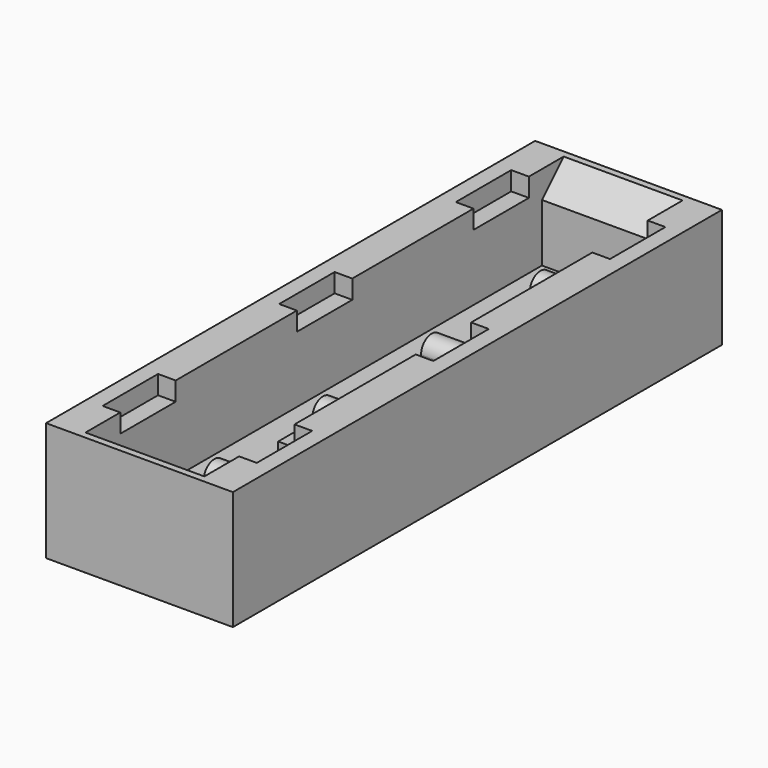
from build123d import *

# Parameters (mm, degrees)
F0_W     = 22.225
F0_H     = 101.6
F1_DEPTH = 6.35
F3_DEPTH = 4.445
F5_DEPTH = 6.6675
F6_W     = 34.925
F6_H     = 114.3
F6_W_2   = 22.225
F6_H_2   = 101.6
F7_DEPTH = 22.225
F8_W     = 3.302
F8_H     = 12.954
F9_DEPTH = 3.5052
F10_SIZE = 5.08


with BuildPart() as f1:
    # F0 (on Top) → F1 (new body)
    with BuildSketch(Plane.XY):
        Rectangle(F0_W, F0_H)
    extrude(amount=-F1_DEPTH)

    # F2 (on Right) → F3 (join, symmetric)
    with BuildSketch(Plane.YZ):
        with BuildLine():
            Line((-44.577, 0), (-31.623, 0))
            Line((-31.623, 0), (-31.623, 2.3495))
            ThreePointArc((-31.623, 2.3495), (-34.0995, 4.826), (-36.576, 2.3495))
            Line((-36.576, 2.3495), (-36.576, 1.651))
            Line((-36.576, 1.651), (-44.577, 1.651))
            Line((-44.577, 1.651), (-44.577, 0))
        make_face()
        with BuildLine():
            Line((-19.177, 0), (-6.223, 0))
            Line((-6.223, 0), (-6.223, 2.3495))
            ThreePointArc((-6.223, 2.3495), (-8.6995, 4.826), (-11.176, 2.3495))
            Line((-11.176, 2.3495), (-11.176, 1.651))
            Line((-11.176, 1.651), (-19.177, 1.651))
            Line((-19.177, 1.651), (-19.177, 0))
        make_face()
        with BuildLine():
            Line((6.223, 0), (19.177, 0))
            Line((19.177, 0), (19.177, 2.3495))
            ThreePointArc((19.177, 2.3495), (16.7005, 4.826), (14.224, 2.3495))
            Line((14.224, 2.3495), (14.224, 1.651))
            Line((14.224, 1.651), (6.223, 1.651))
            Line((6.223, 1.651), (6.223, 0))
        make_face()
        with BuildLine():
            Line((31.623, 0), (44.577, 0))
            Line((44.577, 0), (44.577, 2.3495))
            ThreePointArc((44.577, 2.3495), (42.1005, 4.826), (39.624, 2.3495))
            Line((39.624, 2.3495), (39.624, 1.651))
            Line((39.624, 1.651), (31.623, 1.651))
            Line((31.623, 1.651), (31.623, 0))
        make_face()
    extrude(amount=F3_DEPTH, both=True)

    # F4 (on face) → F5 (join, through all)
    with BuildSketch(Plane.YZ.offset(4.445)):
        with BuildLine():
            ThreePointArc((-33.147, 3.302), (-34.0995, 4.2545), (-35.052, 3.302))
            Line((-35.052, 3.302), (-35.052, 0))
            Line((-35.052, 0), (-33.147, 0))
            Line((-33.147, 0), (-33.147, 3.302))
        make_face()
        with BuildLine():
            Line((-9.652, 3.302), (-9.652, 0))
            Line((-9.652, 0), (-7.747, 0))
            Line((-7.747, 0), (-7.747, 3.302))
            ThreePointArc((-7.747, 3.302), (-8.6995, 4.2545), (-9.652, 3.302))
        make_face()
        with BuildLine():
            Line((15.748, 3.302), (15.748, 0))
            Line((15.748, 0), (17.653, 0))
            Line((17.653, 0), (17.653, 3.302))
            ThreePointArc((17.653, 3.302), (16.7005, 4.2545), (15.748, 3.302))
        make_face()
        with BuildLine():
            Line((41.148, 3.302), (41.148, 0))
            Line((41.148, 0), (43.053, 0))
            Line((43.053, 0), (43.053, 3.302))
            ThreePointArc((43.053, 3.302), (42.1005, 4.2545), (41.148, 3.302))
        make_face()
    extrude(amount=F5_DEPTH)

    # F6 (on face) → F7 (join)
    with BuildSketch(Plane(origin=(0, 0, -6.35), x_dir=(1, 0, 0), z_dir=(0, 0, -1))):
        Rectangle(F6_W, F6_H)
        Rectangle(F6_W_2, F6_H_2, mode=Mode.SUBTRACT)
    extrude(amount=-F7_DEPTH)

    # F8 (on face) → F9 (cut)
    with BuildSketch(Plane.XY.offset(15.875)):
        with Locations((-12.7635, 41.275)):
            Rectangle(F8_W, F8_H)
        with Locations((-12.7635, 0)):
            Rectangle(F8_W, F8_H)
        with Locations((-12.7635, -41.275)):
            Rectangle(F8_W, F8_H)
        with Locations((12.7635, 41.275)):
            Rectangle(F8_W, F8_H)
        with Locations((12.7635, 0)):
            Rectangle(F8_W, F8_H)
        with Locations((12.7635, -41.275)):
            Rectangle(F8_W, F8_H)
    extrude(amount=-F9_DEPTH, mode=Mode.SUBTRACT)

    # F10
    f10_edges = [f1.edges().sort_by_distance(p)[0] for p in [
        (0, 50.8, 15.875),
        (0, -50.8, 15.875),
    ]]
    chamfer(f10_edges, length=F10_SIZE)


solid = f1.part
